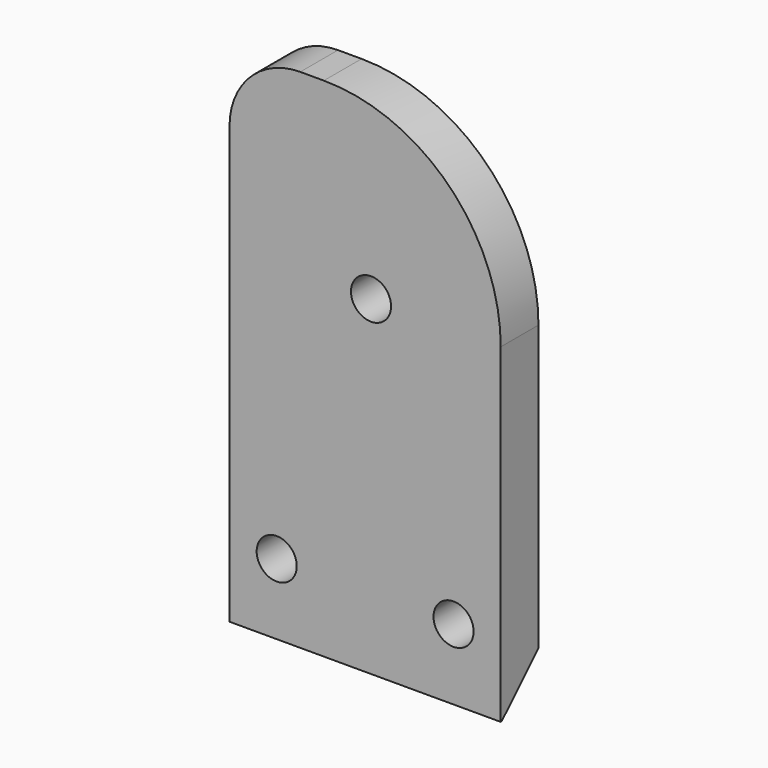
from build123d import *

# Parameters (mm, degrees)
CYLINDER223_R          = 1.7
CYLINDER223_DEPTH      = 21
CYLINDER223_ROLL_ANGLE = 90
CYLINDER201_R          = 1.7
CYLINDER201_DEPTH      = 20
CYLINDER201_ROLL_ANGLE = 90
CYLINDER200_R          = 1.7
CYLINDER200_DEPTH      = 20
CYLINDER200_ROLL_ANGLE = 90
BOX001027045147_W      = 23
BOX001027045147_H      = 4
BOX001027045147_DEPTH  = 43
FILLET034_R            = 15
FILLET038_R            = 6
CHAMFER028_SIZE        = 3.9


with BuildPart() as bearing_fit_cylinder003:
    # Cylinder223 → Cylinder223 (new body)
    with BuildSketch(Plane.XY):
        Circle(CYLINDER223_R)
    extrude(amount=CYLINDER223_DEPTH)


with BuildPart() as bearing_fit_cylinder003_1:
    # Cylinder223 roll: moved
    add(bearing_fit_cylinder003.part.rotate(Axis((0, 0, 0), (1, 0, 0)), CYLINDER223_ROLL_ANGLE))


with BuildPart() as bearing_fit_cylinder003_2:
    # Cylinder223 placement: moved
    add(bearing_fit_cylinder003_1.part.moved(Location((64, 5, -31))))


with BuildPart() as cylinder245:
    # Cylinder201 → Cylinder201 (new body)
    with BuildSketch(Plane.XY):
        Circle(CYLINDER201_R)
    extrude(amount=CYLINDER201_DEPTH)


with BuildPart() as cylinder245_1:
    # Cylinder201 roll: moved
    add(cylinder245.part.rotate(Axis((0, 0, 0), (1, 0, 0)), CYLINDER201_ROLL_ANGLE))


with BuildPart() as cylinder245_2:
    # Cylinder201 placement: moved
    add(cylinder245_1.part.moved(Location((71, 8, -54))))


with BuildPart() as fusion112101:
    # Cylinder200 → Cylinder200 (new body)
    with BuildSketch(Plane.XY):
        Circle(CYLINDER200_R)
    extrude(amount=CYLINDER200_DEPTH)


with BuildPart() as fusion112101_1:
    # Cylinder200 roll: moved
    add(fusion112101.part.rotate(Axis((0, 0, 0), (1, 0, 0)), CYLINDER200_ROLL_ANGLE))


with BuildPart() as fusion112101_2:
    # Cylinder200 placement: moved
    add(fusion112101_1.part.moved(Location((56, 8, -54))))

    # Fusion112101: union Cylinder245
    add(cylinder245_2.part)


with BuildPart() as fusion112101_3:
    # Fusion112101 placement: moved
    add(fusion112101_2.part.moved(Location((0, 0, 1))))


with BuildPart() as chamfer028:
    # Box001027045147 → Box001027045147 (new body)
    with BuildSketch(Plane(origin=(52, -8.8, -59), x_dir=(1, 0, 0), z_dir=(0, 0, 1))):
        with Locations((11.5, 2)):
            Rectangle(BOX001027045147_W, BOX001027045147_H)
    extrude(amount=BOX001027045147_DEPTH)

    # Cut177: cut Fusion112101
    add(fusion112101_3.part, mode=Mode.SUBTRACT)

    # Cut201: cut bearing-fit-cylinder003
    add(bearing_fit_cylinder003_2.part, mode=Mode.SUBTRACT)

    # Fillet034
    fillet034_edges = [chamfer028.edges().sort_by_distance(p)[0] for p in [
        (75, -6.8, -16),
    ]]
    fillet(fillet034_edges, radius=FILLET034_R)

    # Fillet038
    fillet038_edges = [chamfer028.edges().sort_by_distance(p)[0] for p in [
        (52, -6.8, -16),
    ]]
    fillet(fillet038_edges, radius=FILLET038_R)

    # Chamfer028
    chamfer028_edges = [chamfer028.edges().sort_by_distance(p)[0] for p in [
        (63.5, -4.8, -59),
    ]]
    chamfer(chamfer028_edges, length=CHAMFER028_SIZE)


solid = chamfer028.part
